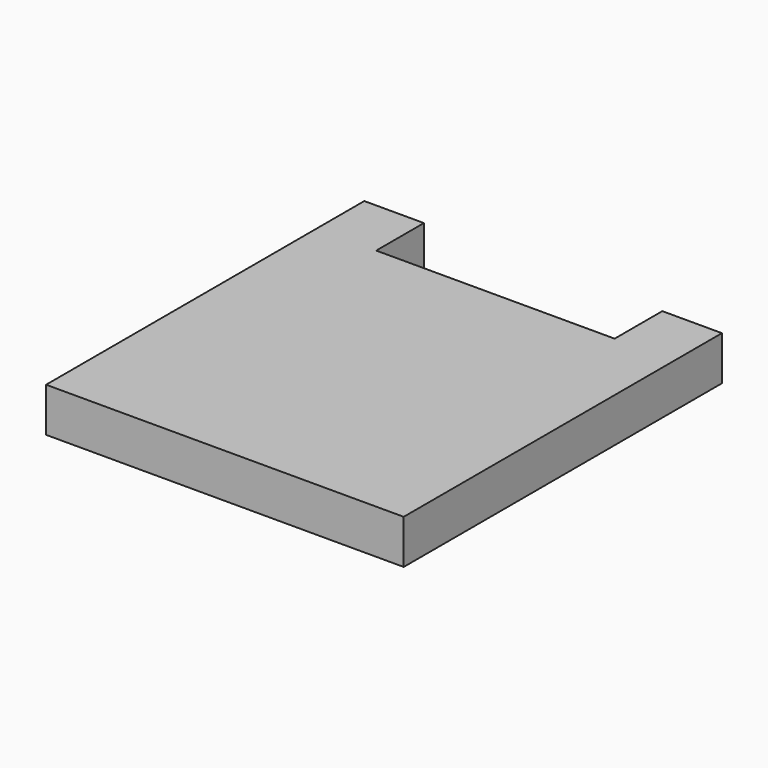
from build123d import *

# Parameters (mm, degrees)
F0_W     = 18
F0_H     = 25.530076
F1_DEPTH = 3.333333


with BuildPart() as f1:
    # F0 (on Top) → F1 (new body)
    with BuildSketch(Plane.XY):
        Polygon((-46.258066, 26.794441), (-46.258066, 52.324517), (-46.258066, 56.824517), (-50.758066, 56.824517), (-50.758066, 26.794441), align=None)
        with Locations((-37.258066, 39.559479)):
            Rectangle(F0_W, F0_H)
        Polygon((-28.258066, 56.824517), (-28.258066, 52.324517), (-28.258066, 26.794441), (-23.758066, 26.794441), (-23.758066, 56.824517), align=None)
    extrude(amount=F1_DEPTH)


solid = f1.part
